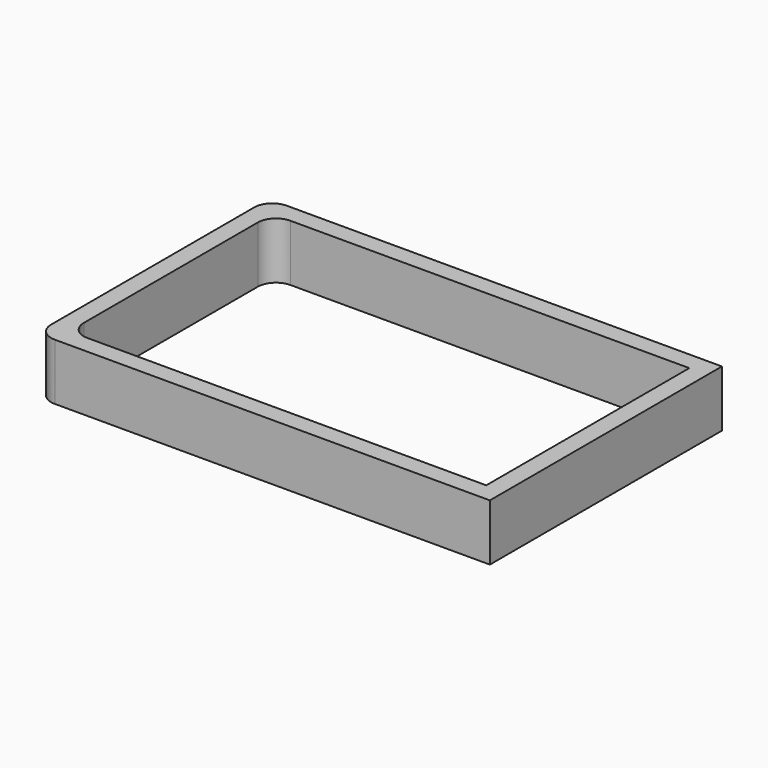
from build123d import *

# Parameters (mm, degrees)
F1_DEPTH = 19.812


with BuildPart() as f1:
    # F0 (on Top) → F1 (new body)
    with BuildSketch(Plane.XY):
        with BuildLine():
            Line((105.372425, 55.590845), (-47.027575, 55.590845))
            ThreePointArc((-47.027575, 55.590845), (-51.517703, 53.730973), (-53.377575, 49.240845))
            Line((-53.377575, 49.240845), (-53.377575, -39.659155))
            ThreePointArc((-53.377575, -39.659155), (-51.517703, -44.149283), (-47.027575, -46.009155))
            Line((-47.027575, -46.009155), (105.372425, -46.009155))
            Line((105.372425, -46.009155), (105.372425, 55.590845))
        make_face()
        Polygon((-47.027575, 42.890845), (-47.027575, 49.240845), (-40.677575, 49.240845), (99.022425, 49.240845), (99.022425, -39.659155), (-40.677575, -39.659155), (-47.027575, -39.659155), (-47.027575, -33.309155), align=None, mode=Mode.SUBTRACT)
        with BuildLine():
            Line((-40.677575, 49.240845), (-47.027575, 49.240845))
            Line((-47.027575, 49.240845), (-47.027575, 42.890845))
            ThreePointArc((-47.027575, 42.890845), (-45.167703, 47.380973), (-40.677575, 49.240845))
        make_face()
        with BuildLine():
            ThreePointArc((-40.677575, -39.659155), (-45.167703, -37.799283), (-47.027575, -33.309155))
            Line((-47.027575, -33.309155), (-47.027575, -39.659155))
            Line((-47.027575, -39.659155), (-40.677575, -39.659155))
        make_face()
    extrude(amount=F1_DEPTH)


solid = f1.part
